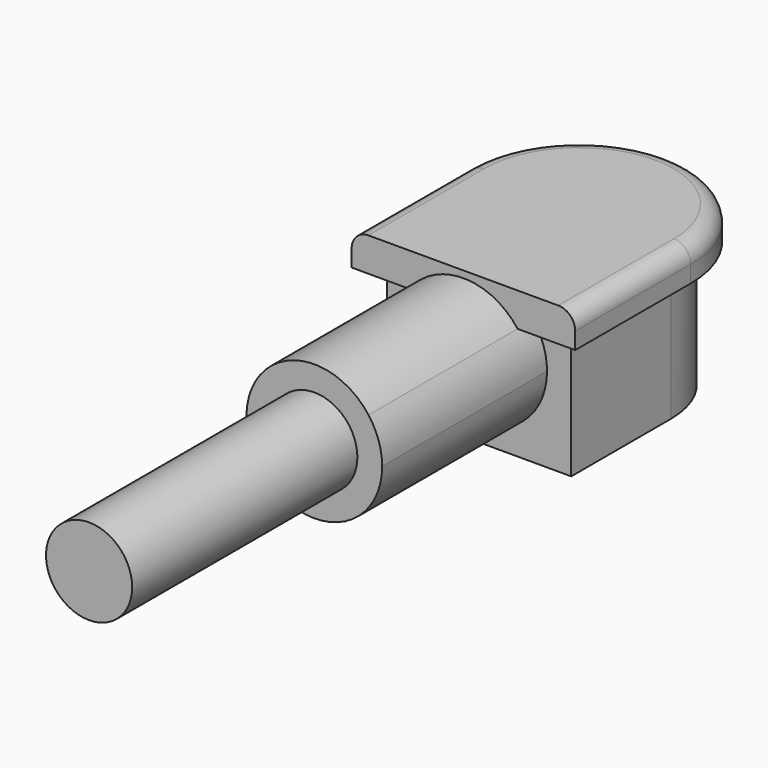
from build123d import *

# Parameters (mm, degrees)
F1_DEPTH = 5.6642
F3_DEPTH = 1.524
F4_DEPTH = 1.524
F6_DEPTH = 9.2964
F7_R     = 0.762
F8_R     = 1.9431
F9_DEPTH = 12.7


with BuildPart() as f1:
    # F0 (on Top) → F1 (new body)
    with BuildSketch(Plane.XY):
        with BuildLine():
            Line((4.1529, -5.6261), (4.1529, 0))
            ThreePointArc((4.1529, 0), (0, 4.1529), (-4.1529, 0))
            Line((-4.1529, 0), (-4.1529, -5.6261))
            Line((-4.1529, -5.6261), (4.1529, -5.6261))
        make_face()
    extrude(amount=-F1_DEPTH)

    # F2 (on face) → F3 (join)
    with BuildSketch(Plane.XY):
        with BuildLine():
            ThreePointArc((5.0419, 0), (0, 5.0419), (-5.0419, 0))
            Line((-5.0419, 0), (-5.0419, -6.5151))
            Line((-5.0419, -6.5151), (5.0419, -6.5151))
            Line((5.0419, -6.5151), (5.0419, 0))
        make_face()
        with BuildLine():
            Line((-4.1529, -5.6261), (-4.1529, 0))
            ThreePointArc((-4.1529, 0), (0, 4.1529), (4.1529, 0))
            Line((4.1529, 0), (4.1529, -5.6261))
            Line((4.1529, -5.6261), (-4.1529, -5.6261))
        make_face(mode=Mode.SUBTRACT)
    extrude(amount=F3_DEPTH)



with BuildPart() as f4:
    # F1_face (on face) → F4 (new body, through all)
    with BuildSketch(Plane(origin=(0, -1.133876, 0), x_dir=(1, 0, 0), z_dir=(0, 0, 1))):
        with BuildLine():
            Line((-4.1529, 1.133876), (-4.1529, -4.492224))
            Line((-4.1529, -4.492224), (4.1529, -4.492224))
            Line((4.1529, -4.492224), (4.1529, 1.133876))
            ThreePointArc((4.1529, 1.133876), (0, 5.286776), (-4.1529, 1.133876))
        make_face()
    extrude(amount=F4_DEPTH)


with BuildPart() as f1_1:
    add(f1.part)

    add(f4.part)  # F6 merges F4
    # F5 (on face) → F6 (join)
    with BuildSketch(Plane.XZ.offset(5.6261)):
        with BuildLine():
            ThreePointArc((-2.444742, 0), (-0.970892, -4.744129), (3.0607, -1.8415))
            ThreePointArc((3.0607, -1.8415), (2.902629, -0.870608), (2.444742, 0))
            Line((2.444742, 0), (-2.444742, 0))
        make_face()
        with BuildLine():
            Line((-2.444742, 0), (2.444742, 0))
            ThreePointArc((2.444742, 0), (0, 1.2192), (-2.444742, 0))
        make_face()
    extrude(amount=F6_DEPTH)

    # F7
    f7_edges = [f1_1.edges().sort_by_distance(p)[0] for p in [
        (5.0419, -3.25755, 1.524),
    ]]
    fillet(f7_edges, radius=F7_R)

    # F8 (on face) → F9 (join)
    with BuildSketch(Plane.XZ.offset(14.9225)):
        with Locations((0, -1.8415)):
            Circle(F8_R)
    extrude(amount=F9_DEPTH)


solid = f1_1.part
